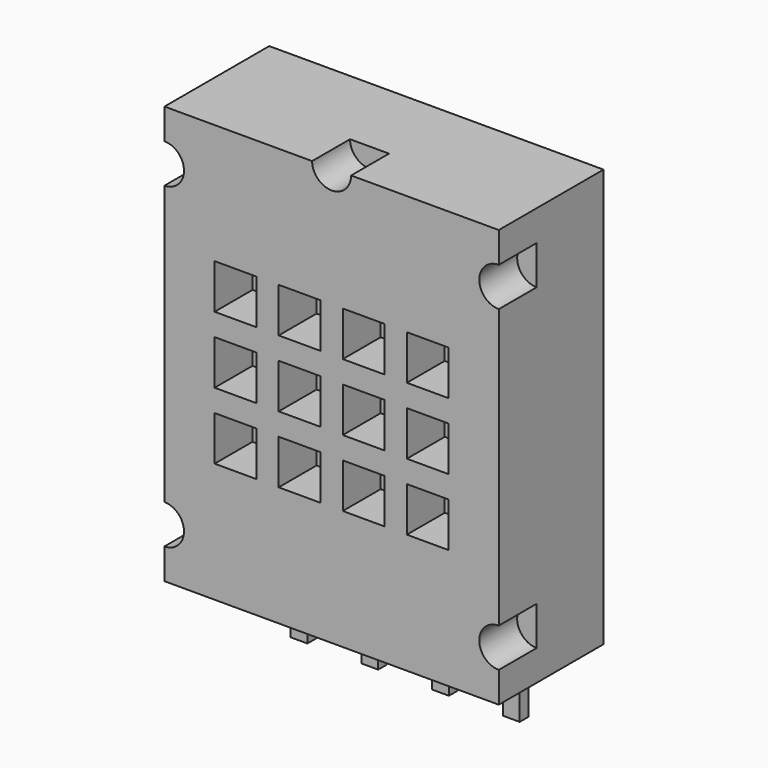
from build123d import *

# Parameters (mm, degrees)
F0_W     = 12
F0_H     = 15
F1_DEPTH = 2.35
F2_W     = 1.5
F2_H     = 1.6
F3_DEPTH = 1.7
F4_W     = 0.6
F4_H     = 0.4
F5_DEPTH = 2.5


with BuildPart() as f1:
    # F0 (on Front) → F1 (new body, symmetric)
    with BuildSketch(Plane.XZ):
        Rectangle(F0_W, F0_H)
    extrude(amount=F1_DEPTH, both=True)

    # F2 (on face) → F3 (cut)
    with BuildSketch(Plane.XZ.offset(2.35)):
        with BuildLine():
            Line((-6, 6.4), (-6, 5))
            ThreePointArc((-6, 5), (-5.3, 5.7), (-6, 6.4))
        make_face()
        with Locations((-3.45, 2.4)):
            Rectangle(F2_W, F2_H)
        with Locations((-1.15, 2.4)):
            Rectangle(F2_W, F2_H)
        with Locations((1.15, 2.4)):
            Rectangle(F2_W, F2_H)
        with Locations((3.45, 2.4)):
            Rectangle(F2_W, F2_H)
        with Locations((3.45, 0)):
            Rectangle(F2_W, F2_H)
        with Locations((1.15, 0)):
            Rectangle(F2_W, F2_H)
        with Locations((-1.15, 0)):
            Rectangle(F2_W, F2_H)
        with Locations((-3.45, 0)):
            Rectangle(F2_W, F2_H)
        with Locations((-3.45, -2.4)):
            Rectangle(F2_W, F2_H)
        with Locations((-1.15, -2.4)):
            Rectangle(F2_W, F2_H)
        with Locations((1.15, -2.4)):
            Rectangle(F2_W, F2_H)
        with Locations((3.45, -2.4)):
            Rectangle(F2_W, F2_H)
        with BuildLine():
            Line((6, -6.4), (6, -5))
            ThreePointArc((6, -5), (5.3, -5.7), (6, -6.4))
        make_face()
        with BuildLine():
            Line((-6, -5), (-6, -6.4))
            ThreePointArc((-6, -6.4), (-5.3, -5.7), (-6, -5))
        make_face()
        with BuildLine():
            ThreePointArc((6, 6.4), (5.3, 5.7), (6, 5))
            Line((6, 5), (6, 6.4))
        make_face()
        with BuildLine():
            ThreePointArc((-0.7, 7.5), (0, 6.8), (0.7, 7.5))
            Line((0.7, 7.5), (-0.7, 7.5))
        make_face()
    extrude(amount=-F3_DEPTH, mode=Mode.SUBTRACT)

    # F4 (on face) → F5 (join)
    with BuildSketch(Plane(origin=(0, 0, -7.5), x_dir=(1, 0, 0), z_dir=(0, 0, -1))):
        with Locations((-3.81, -1.15)):
            Rectangle(F4_W, F4_H)
        with Locations((-1.27, -1.15)):
            Rectangle(F4_W, F4_H)
        with Locations((1.27, -1.15)):
            Rectangle(F4_W, F4_H)
        with Locations((3.81, -1.15)):
            Rectangle(F4_W, F4_H)
    extrude(amount=F5_DEPTH)


solid = f1.part
